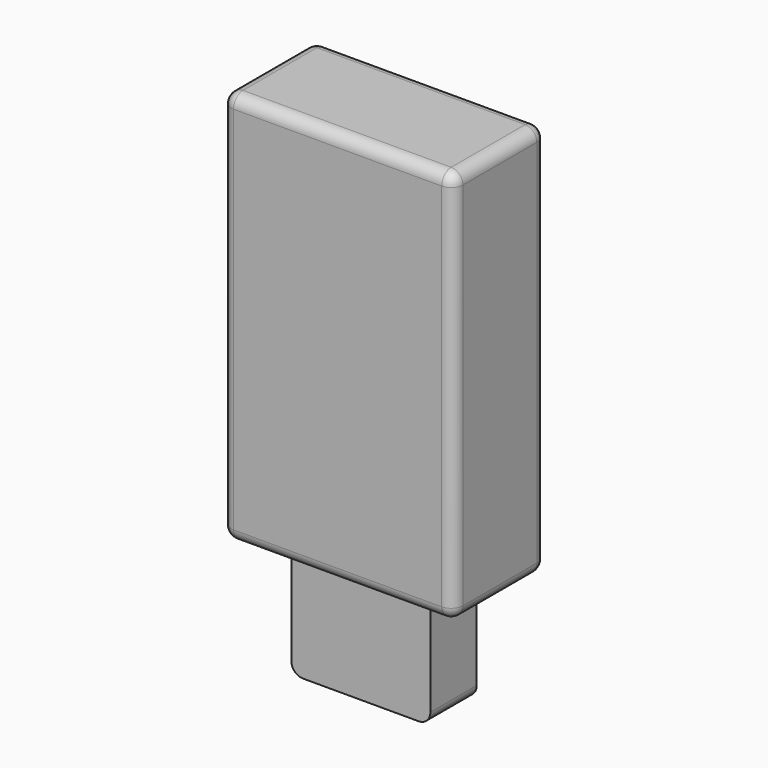
from build123d import *

# Parameters (mm, degrees)
F0_W     = 10
F0_H     = 5
F1_DEPTH = 16.999991
F2_W     = 5.999998
F2_H     = 2.499995
F3_DEPTH = 4.99872
F4_R     = 0.508


with BuildPart() as f1:
    # F0 (on Top) → F1 (new body)
    with BuildSketch(Plane.XY):
        with Locations((-1.278629, -2.023488)):
            Rectangle(F0_W, F0_H)
    extrude(amount=F1_DEPTH)

    # F2 (on face) → F3 (join)
    with BuildSketch(Plane(origin=(0, 0, 0), x_dir=(1, 0, 0), z_dir=(0, 0, -1))):
        with Locations((-1.278629, 2.023489)):
            Rectangle(F2_W, F2_H)
    extrude(amount=F3_DEPTH)

    # F4
    f4_edges = [f1.edges().sort_by_distance(p)[0] for p in [
        (-1.278629, -0.773491, 0),
        (1.72137, -2.023488, 0),
        (-4.278628, -2.023488, 0),
        (-1.278629, -3.273486, 0),
        (-4.278628, -2.023488, -4.99872),
        (1.72137, -2.023488, -4.99872),
        (3.721371, -2.023488, 0),
        (-1.278629, 0.476512, 0),
        (3.721371, 0.476512, 8.499996),
        (-6.278629, 0.476512, 8.499996),
        (-6.278629, -2.023488, 0),
        (-6.278629, -4.523488, 8.499996),
        (3.721371, -4.523488, 8.499996),
        (-1.278629, -4.523488, 0),
        (-1.278629, -4.523488, 16.999991),
        (-1.278629, 0.476512, 16.999991),
        (-6.278629, -2.023488, 16.999991),
        (3.721371, -2.023488, 16.999991),
    ]]
    fillet(f4_edges, radius=F4_R)


solid = f1.part
